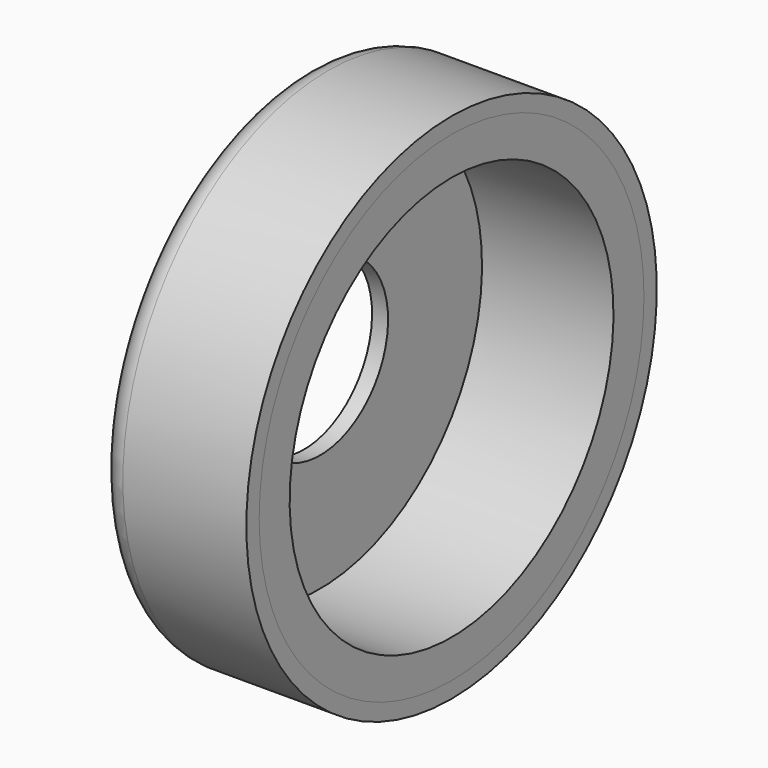
from build123d import *


with BuildPart() as f1:
    # F0 (on Front) → F1 (revolve)
    with BuildSketch(Plane.XZ):
        with BuildLine():
            Line((-1, 5.3), (0, 5.3))
            Line((0, 5.3), (0, 14.5))
            ThreePointArc((0, 14.5), (0.146447, 14.853553), (0.5, 15))
            Line((0.5, 15), (8.2, 15))
            Line((8.2, 15), (8.2, 16))
            Line((8.2, 16), (0.5, 16))
            ThreePointArc((0.5, 16), (-0.56066, 15.56066), (-1, 14.5))
            Line((-1, 14.5), (-1, 5.3))
        make_face()
    revolve(axis=Axis((5.047445, 0, 0), (1, 0, 0)))


with BuildPart() as f3:
    # F2 (on Front) → F3 (revolve)
    with BuildSketch(Plane.XZ):
        with BuildLine():
            Line((8.2, 15), (0.5, 15))
            ThreePointArc((0.5, 15), (0.146447, 14.853553), (0, 14.5))
            Line((0, 14.5), (0, 12.625))
            Line((0, 12.625), (8.2, 12.625))
            Line((8.2, 12.625), (8.2, 15))
        make_face()
    revolve(axis=Axis((5.047445, 0, 0), (1, 0, 0)))


solid = Compound([f1.part, f3.part])
